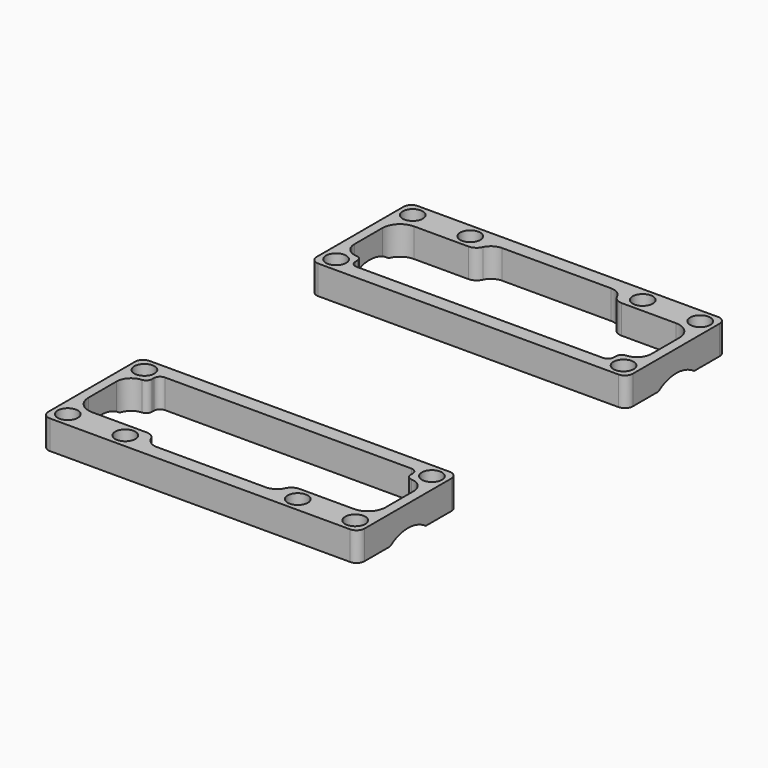
from build123d import *

# Parameters (mm, degrees)
CYLINDER004_R     = 8
CYLINDER004_DEPTH = 17
ARRAY002_X_COUNT  = 2
ARRAY002_X_PITCH  = 60
SKETCH001_R       = 2.1
EXTRUDE_DEPTH     = 6


with BuildPart() as bearing_hole_compound:
    # Cylinder004 → Cylinder004 (new body)
    with BuildSketch(Plane(origin=(1.5, 88, -10.5), x_dir=(0, 0, -1), z_dir=(1, 0, 0))):
        Circle(CYLINDER004_R)
    extrude(amount=CYLINDER004_DEPTH)

    # Array002 X: bearing hole compound ×2


with BuildPart() as bearing_hole_compound_1:
    add(bearing_hole_compound.part)
    with Locations(*[(i * ARRAY002_X_PITCH, 0, 0) for i in range(1, ARRAY002_X_COUNT)]):
        add(bearing_hole_compound.part)


with BuildPart() as bearing_hole_compound_2:
    # Compound placement: moved
    add(bearing_hole_compound_1.part.moved(Location((-40, -88, 4))))


with BuildPart() as bearing_connector_extruder:
    # Sketch001 → Extrude (new body)
    with BuildSketch(Plane.XY):
        with BuildLine():
            Line((33, 11.326727), (33, -11.326727))
            ThreePointArc((31.326727, -13), (32.50991, -12.50991), (33, -11.326727))
            Line((0, -13), (31.326727, -13))
            Line((0, -10), (0, -13))
            Line((0, -10), (11.357556, -10))
            ThreePointArc((11.357556, -10), (12.931305, -9.535199), (14, -8.28996))
            ThreePointArc((15.993315, -7), (14.806165, -7.350621), (14, -8.28996))
            Line((15.993315, -7), (27.335971, -7))
            ThreePointArc((27.335971, -7), (29.927368, -5.921099), (31, -3.327101))
            Line((31, 3.972105), (31, -3.327101))
            ThreePointArc((31, 3.972105), (30.174276, 6.052347), (28.14667, 7))
            ThreePointArc((27, 8.216823), (27.331834, 7.380834), (28.14667, 7))
            Line((27, 8.216823), (27, 8.72003))
            ThreePointArc((27, 8.72003), (26.625105, 9.625105), (25.72003, 10))
            Line((0, 10), (25.72003, 10))
            Line((0, 13), (0, 10))
            Line((0, 13), (31.326727, 13))
            ThreePointArc((33, 11.326727), (32.50991, 12.50991), (31.326727, 13))
        make_face()
        with Locations((30, -10)):
            Circle(SKETCH001_R, mode=Mode.SUBTRACT)
        with Locations((30, 10)):
            Circle(SKETCH001_R, mode=Mode.SUBTRACT)
        with Locations((18, -10)):
            Circle(SKETCH001_R, mode=Mode.SUBTRACT)
    extrude(amount=EXTRUDE_DEPTH)


with BuildPart() as bearing_connector_compound:
    # Part__Mirroring002: instance of bearing connector extruder
    add(bearing_connector_extruder.part.mirror(Plane(origin=(0, 0, 0), x_dir=(0, -1, 0), z_dir=(1, 0, 0))))

    # Fusion005: union bearing connector extruder
    add(bearing_connector_extruder.part)

    # Cut003: cut bearing hole compound
    add(bearing_hole_compound_2.part, mode=Mode.SUBTRACT)


with BuildPart() as bearing_connector_compound_1:
    # Compound005 placement: moved
    add(bearing_connector_compound.part.moved(Location((0, -35, 0))))


with BuildPart() as part_mirroring004:
    # Part__Mirroring004: instance of bearing connector compound
    add(bearing_connector_compound_1.part.mirror(Plane(origin=(0, 0, 0), x_dir=(1, 0, 0), z_dir=(0, 1, 0))))


with BuildPart() as bearing_connector_compound_fusion:
    # Fusion006 base: copy of bearing connector compound
    add(bearing_connector_compound_1.part)

    # Fusion006: union Part__Mirroring004
    add(part_mirroring004.part)


solid = bearing_connector_compound_fusion.part
